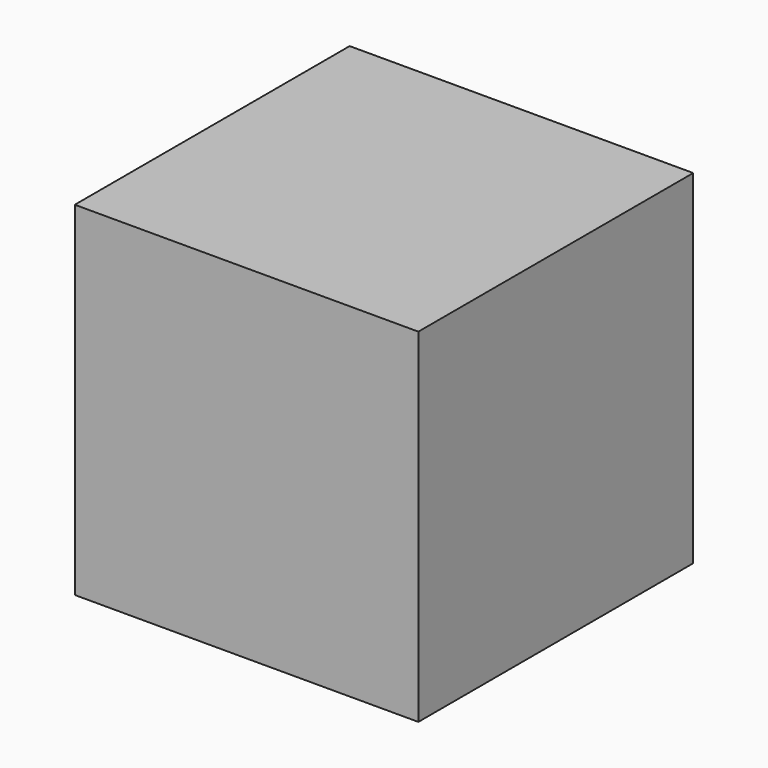
from build123d import *

# Parameters (mm, degrees)
SKETCH_W      = 100
SKETCH_H      = 100
EXTRUDE_DEPTH = 100


with BuildPart() as part:
    # Sketch → Extrude (new body)
    with BuildSketch(Plane.XY):
        Rectangle(SKETCH_W, SKETCH_H)
    extrude(amount=EXTRUDE_DEPTH)


solid = part.part
